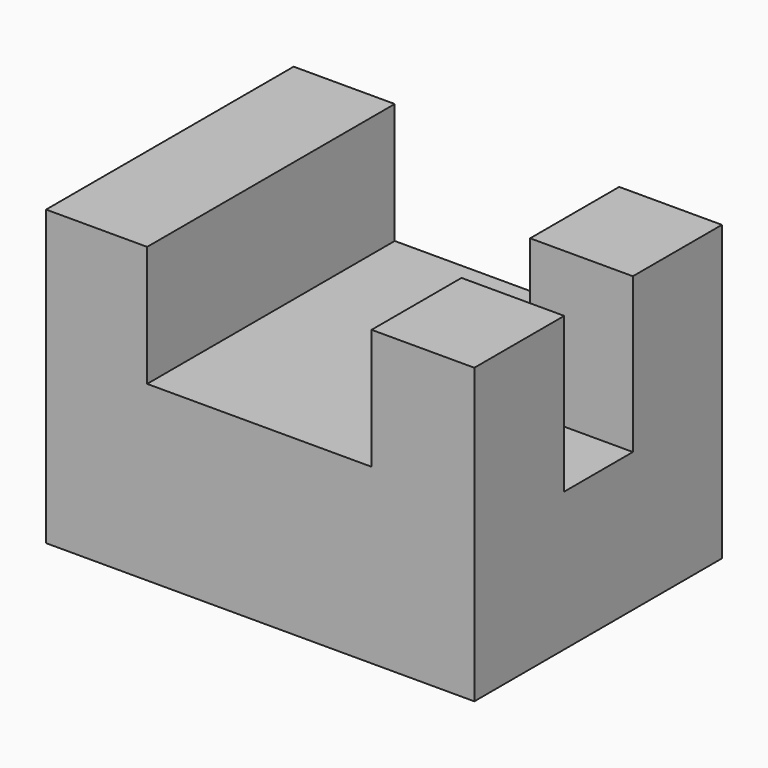
from build123d import *

# Parameters (mm, degrees)
F1_DEPTH = 25.4
F2_W     = 16.863502562
F2_H     = 14.0826925635
F3_DEPTH = 25.4


with BuildPart() as f1:
    # F0 (on Front) → F1 (new body, symmetric)
    with BuildSketch(Plane.XZ):
        Polygon((0, 48.207629472), (0, 0), (70.2951550484, 0), (70.2951550484, 48.207629472), (53.4316524863, 48.207629472), (53.4316524863, 28.4113399684), (16.5885612369, 28.4113399684), (16.5885612369, 48.207629472), align=None)
    extrude(amount=F1_DEPTH, both=True)

    # F2 (on face) → F3 (cut)
    with BuildSketch(Plane.XY.offset(48.207629472)):
        with Locations((61.8634037673, 0.0867024064)):
            Rectangle(F2_W, F2_H)
    extrude(amount=-F3_DEPTH, mode=Mode.SUBTRACT)


solid = f1.part
